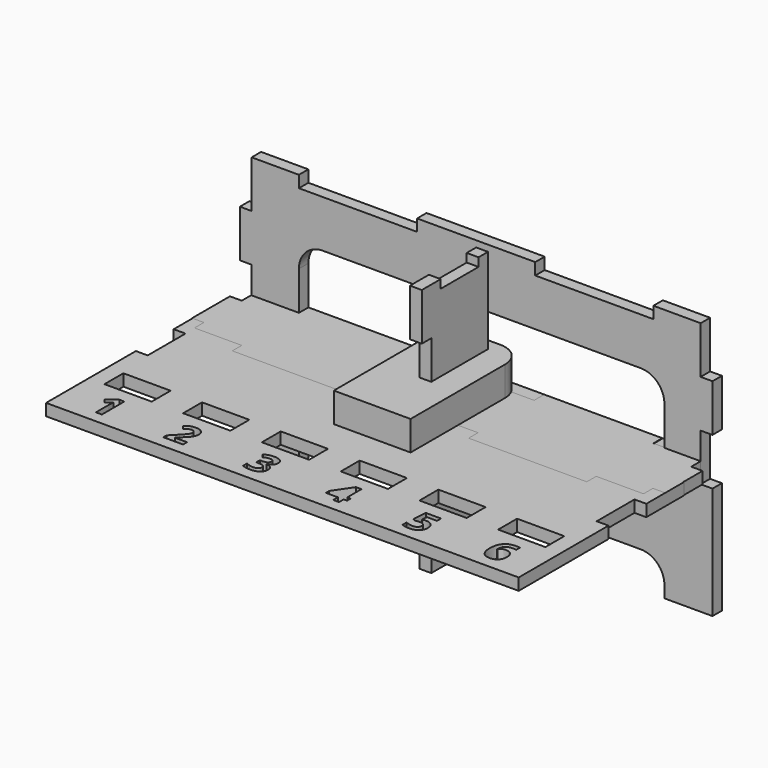
from build123d import *

# Parameters (mm, degrees)
F0_R     = 1.5875
F1_DEPTH = 44.45
F2_W     = 50.8
F2_H     = 25.4
F2_R     = 1.6129
F3_DEPTH = 12.7
F5_DEPTH = 12.7
F7_DEPTH = 12.7
F9_DEPTH = 12.7


with BuildPart() as f1:
    # F0 (on Top) → F1 (new body)
    with BuildSketch(Plane.XY):
        with BuildLine():
            Line((15.875, 0), (-15.875, 0))
            ThreePointArc((-15.875, 0), (-33.8355122421, -7.4394877579), (-41.275, -25.4))
            Line((-41.275, -25.4), (-41.275, -152.4))
            Line((-41.275, -152.4), (41.275, -152.4))
            Line((41.275, -152.4), (41.275, -25.4))
            ThreePointArc((41.275, -25.4), (33.8355122421, -7.4394877579), (15.875, 0))
        make_face()
        with Locations((0, -25.4)):
            Circle(F0_R, mode=Mode.SUBTRACT)
    extrude(amount=F1_DEPTH)


with BuildPart() as f3:
    # F2 (on Top) → F3 (new body)
    with BuildSketch(Plane.XY):
        Polygon((-190.5, 0), (-241.3, 0), (-241.3, -50.8), (-254, -50.8), (-254, -101.6), (-241.3, -101.6), (-241.3, -152.4), (-254, -152.4), (-254, -273.05), (254, -273.05), (254, -152.4), (241.3, -152.4), (241.3, -101.6), (254, -101.6), (254, -50.8), (241.3, -50.8), (241.3, 0), (190.5, 0), (190.5, -12.7), (63.5, -12.7), (63.5, 0), (-63.5, 0), (-63.5, -12.7), (-190.5, -12.7), align=None)
        with BuildLine():
            Line((-204.210046875, -230.12796875), (-204.210046875, -260.35))
            Line((-204.210046875, -260.35), (-210.599734375, -260.35))
            Line((-210.599734375, -260.35), (-210.599734375, -242.8610416667))
            Line((-210.599734375, -242.8610416667), (-210.5335885417, -239.9903125))
            Line((-210.5335885417, -239.9903125), (-210.4343697917, -236.8483854167))
            add(Edge.make_bspline(
                [(-210.4343697917, -236.8483854167), (-212.0218697917, -238.4358854167), (-212.643640625, -238.9319791667)],
                knots=[0, 0, 0, 1, 1, 1], degree=2))
            Line((-212.643640625, -238.9319791667), (-216.116296875, -241.7233333333))
            Line((-216.116296875, -241.7233333333), (-219.1986927083, -237.8802604167))
            Line((-219.1986927083, -237.8802604167), (-209.4620260417, -230.12796875))
            Line((-209.4620260417, -230.12796875), (-204.210046875, -230.12796875))
        make_face(mode=Mode.SUBTRACT)
        with BuildLine():
            Line((-116.9623697917, -254.97234375), (-116.9623697917, -260.35))
            Line((-116.9623697917, -260.35), (-138.0893489583, -260.35))
            Line((-138.0893489583, -260.35), (-138.0893489583, -255.905))
            Line((-138.0893489583, -255.905), (-130.502421875, -248.2386979167))
            add(Edge.make_bspline(
                [(-130.502421875, -248.2386979167), (-127.128984375, -244.7858854167), (-126.097109375, -243.453046875)],
                knots=[0, 0, 0, 1, 1, 1], degree=2))
            add(Edge.make_bspline(
                [(-126.097109375, -243.453046875), (-125.065234375, -242.1202083333), (-124.608828125, -240.9825)],
                knots=[0, 0, 0, 1, 1, 1], degree=2))
            add(Edge.make_bspline(
                [(-124.608828125, -240.9825), (-124.152421875, -239.8447916667), (-124.152421875, -238.6277083333)],
                knots=[0, 0, 0, 1, 1, 1], degree=2))
            add(Edge.make_bspline(
                [(-124.152421875, -238.6277083333), (-124.152421875, -236.8086979167), (-125.1578385417, -235.9190364583)],
                knots=[0, 0, 0, 1, 1, 1], degree=2))
            add(Edge.make_bspline(
                [(-125.1578385417, -235.9190364583), (-126.1632552083, -235.029375), (-127.8367447917, -235.029375)],
                knots=[0, 0, 0, 1, 1, 1], degree=2))
            add(Edge.make_bspline(
                [(-127.8367447917, -235.029375), (-129.589609375, -235.029375), (-131.2432552083, -235.8363541667)],
                knots=[0, 0, 0, 1, 1, 1], degree=2))
            add(Edge.make_bspline(
                [(-131.2432552083, -235.8363541667), (-132.8969010417, -236.6433333333), (-134.6960677083, -238.1316145833)],
                knots=[0, 0, 0, 1, 1, 1], degree=2))
            Line((-134.6960677083, -238.1316145833), (-138.1687239583, -234.01734375))
            add(Edge.make_bspline(
                [(-138.1687239583, -234.01734375), (-135.939609375, -232.11234375), (-134.471171875, -231.328515625)],
                knots=[0, 0, 0, 1, 1, 1], degree=2))
            add(Edge.make_bspline(
                [(-134.471171875, -231.328515625), (-133.002734375, -230.5446875), (-131.26640625, -230.1213541667)],
                knots=[0, 0, 0, 1, 1, 1], degree=2))
            add(Edge.make_bspline(
                [(-131.26640625, -230.1213541667), (-129.530078125, -229.6980208333), (-127.3803385417, -229.6980208333)],
                knots=[0, 0, 0, 1, 1, 1], degree=2))
            add(Edge.make_bspline(
                [(-127.3803385417, -229.6980208333), (-124.549296875, -229.6980208333), (-122.3797135417, -230.7298958333)],
                knots=[0, 0, 0, 1, 1, 1], degree=2))
            add(Edge.make_bspline(
                [(-122.3797135417, -230.7298958333), (-120.2101302083, -231.7617708333), (-119.0095833333, -233.6237760417)],
                knots=[0, 0, 0, 1, 1, 1], degree=2))
            add(Edge.make_bspline(
                [(-119.0095833333, -233.6237760417), (-117.8090364583, -235.48578125), (-117.8090364583, -237.8802604167)],
                knots=[0, 0, 0, 1, 1, 1], degree=2))
            add(Edge.make_bspline(
                [(-117.8090364583, -237.8802604167), (-117.8090364583, -239.97046875), (-118.5432552083, -241.7994010417)],
                knots=[0, 0, 0, 1, 1, 1], degree=2))
            add(Edge.make_bspline(
                [(-118.5432552083, -241.7994010417), (-119.2774739583, -243.6283333333), (-120.818671875, -245.5498697917)],
                knots=[0, 0, 0, 1, 1, 1], degree=2))
            add(Edge.make_bspline(
                [(-120.818671875, -245.5498697917), (-122.3598697917, -247.47140625), (-126.2426302083, -251.0300520833)],
                knots=[0, 0, 0, 1, 1, 1], degree=2))
            Line((-126.2426302083, -251.0300520833), (-130.1320052083, -254.6879166667))
            Line((-130.1320052083, -254.6879166667), (-130.1320052083, -254.97234375))
            Line((-130.1320052083, -254.97234375), (-116.9623697917, -254.97234375))
        make_face(mode=Mode.SUBTRACT)
        with BuildLine():
            add(Edge.make_bspline(
                [(-36.1308385417, -231.5997135417), (-33.4122447917, -233.50140625), (-33.4122447917, -236.8880729167)],
                knots=[0, 0, 0, 1, 1, 1], degree=2))
            add(Edge.make_bspline(
                [(-33.4122447917, -236.8880729167), (-33.4122447917, -239.7191145833), (-35.1287291667, -241.7034895833)],
                knots=[0, 0, 0, 1, 1, 1], degree=2))
            add(Edge.make_bspline(
                [(-35.1287291667, -241.7034895833), (-36.8452135417, -243.6878645833), (-39.947453125, -244.4353125)],
                knots=[0, 0, 0, 1, 1, 1], degree=2))
            Line((-39.947453125, -244.4353125), (-39.947453125, -244.554375))
            add(Edge.make_bspline(
                [(-39.947453125, -244.554375), (-36.2829739583, -245.01078125), (-34.4044322917, -246.7801822917)],
                knots=[0, 0, 0, 1, 1, 1], degree=2))
            add(Edge.make_bspline(
                [(-34.4044322917, -246.7801822917), (-32.525890625, -248.5495833333), (-32.525890625, -251.5459895833)],
                knots=[0, 0, 0, 1, 1, 1], degree=2))
            add(Edge.make_bspline(
                [(-32.525890625, -251.5459895833), (-32.525890625, -255.905), (-35.6876614583, -258.335859375)],
                knots=[0, 0, 0, 1, 1, 1], degree=2))
            add(Edge.make_bspline(
                [(-35.6876614583, -258.335859375), (-38.8494322917, -260.76671875), (-44.7165677083, -260.76671875)],
                knots=[0, 0, 0, 1, 1, 1], degree=2))
            add(Edge.make_bspline(
                [(-44.7165677083, -260.76671875), (-49.6378177083, -260.76671875), (-53.441203125, -259.1329166667)],
                knots=[0, 0, 0, 1, 1, 1], degree=2))
            Line((-53.441203125, -259.1329166667), (-53.441203125, -253.6957291667))
            add(Edge.make_bspline(
                [(-53.441203125, -253.6957291667), (-51.6883385417, -254.5820833333), (-49.5782864583, -255.141015625)],
                knots=[0, 0, 0, 1, 1, 1], degree=2))
            add(Edge.make_bspline(
                [(-49.5782864583, -255.141015625), (-47.468234375, -255.6999479167), (-45.404484375, -255.6999479167)],
                knots=[0, 0, 0, 1, 1, 1], degree=2))
            add(Edge.make_bspline(
                [(-45.404484375, -255.6999479167), (-42.2360989583, -255.6999479167), (-40.7279739583, -254.625078125)],
                knots=[0, 0, 0, 1, 1, 1], degree=2))
            add(Edge.make_bspline(
                [(-40.7279739583, -254.625078125), (-39.2198489583, -253.5502083333), (-39.2198489583, -251.1689583333)],
                knots=[0, 0, 0, 1, 1, 1], degree=2))
            add(Edge.make_bspline(
                [(-39.2198489583, -251.1689583333), (-39.2198489583, -249.0456770833), (-40.9561770833, -248.156015625)],
                knots=[0, 0, 0, 1, 1, 1], degree=2))
            add(Edge.make_bspline(
                [(-40.9561770833, -248.156015625), (-42.6925052083, -247.2663541667), (-46.495890625, -247.2663541667)],
                knots=[0, 0, 0, 1, 1, 1], degree=2))
            Line((-46.495890625, -247.2663541667), (-48.7911510417, -247.2663541667))
            Line((-48.7911510417, -247.2663541667), (-48.7911510417, -242.3649479167))
            Line((-48.7911510417, -242.3649479167), (-46.456203125, -242.3649479167))
            add(Edge.make_bspline(
                [(-46.456203125, -242.3649479167), (-42.943859375, -242.3649479167), (-41.3199791667, -241.4455208333)],
                knots=[0, 0, 0, 1, 1, 1], degree=2))
            add(Edge.make_bspline(
                [(-41.3199791667, -241.4455208333), (-39.6960989583, -240.52609375), (-39.6960989583, -238.2969791667)],
                knots=[0, 0, 0, 1, 1, 1], degree=2))
            add(Edge.make_bspline(
                [(-39.6960989583, -238.2969791667), (-39.6960989583, -234.8640104167), (-43.995578125, -234.8640104167)],
                knots=[0, 0, 0, 1, 1, 1], degree=2))
            add(Edge.make_bspline(
                [(-43.995578125, -234.8640104167), (-45.483859375, -234.8640104167), (-47.0250572917, -235.3601041667)],
                knots=[0, 0, 0, 1, 1, 1], degree=2))
            add(Edge.make_bspline(
                [(-47.0250572917, -235.3601041667), (-48.5662552083, -235.8561979167), (-50.444796875, -237.07328125)],
                knots=[0, 0, 0, 1, 1, 1], degree=2))
            Line((-50.444796875, -237.07328125), (-53.401515625, -232.6745833333))
            add(Edge.make_bspline(
                [(-53.401515625, -232.6745833333), (-49.2674010417, -229.6980208333), (-43.539171875, -229.6980208333)],
                knots=[0, 0, 0, 1, 1, 1], degree=2))
            add(Edge.make_bspline(
                [(-43.539171875, -229.6980208333), (-38.8494322917, -229.6980208333), (-36.1308385417, -231.5997135417)],
                knots=[0, 0, 0, 1, 1, 1], degree=2))
        make_face(mode=Mode.SUBTRACT)
        with Locations((-211.582, -203.2)):
            Rectangle(F2_W, F2_H, mode=Mode.SUBTRACT)
        with Locations((-127, -203.2)):
            Rectangle(F2_W, F2_H, mode=Mode.SUBTRACT)
        with Locations((-42.418, -203.2)):
            Rectangle(F2_W, F2_H, mode=Mode.SUBTRACT)
        Polygon((54.32028125, -249.1250520833), (54.32028125, -254.0859895833), (50.6822604167, -254.0859895833), (50.6822604167, -260.35), (44.43809375, -260.35), (44.43809375, -254.0859895833), (31.53965625, -254.0859895833), (31.53965625, -249.6409895833), (44.79528125, -230.12796875), (50.6822604167, -230.12796875), (50.6822604167, -249.1250520833), align=None, mode=Mode.SUBTRACT)
        with BuildLine():
            add(Edge.make_bspline(
                [(125.5904322917, -241.3330729167), (126.8538177083, -241.04203125), (128.712515625, -241.04203125)],
                knots=[0, 0, 0, 1, 1, 1], degree=2))
            add(Edge.make_bspline(
                [(128.712515625, -241.04203125), (133.0913697917, -241.04203125), (135.68759375, -243.50265625)],
                knots=[0, 0, 0, 1, 1, 1], degree=2))
            add(Edge.make_bspline(
                [(135.68759375, -243.50265625), (138.2838177083, -245.96328125), (138.2838177083, -250.2429166667)],
                knots=[0, 0, 0, 1, 1, 1], degree=2))
            add(Edge.make_bspline(
                [(138.2838177083, -250.2429166667), (138.2838177083, -255.3030729167), (135.161734375, -258.0348958333)],
                knots=[0, 0, 0, 1, 1, 1], degree=2))
            add(Edge.make_bspline(
                [(135.161734375, -258.0348958333), (132.0396510417, -260.76671875), (126.232046875, -260.76671875)],
                knots=[0, 0, 0, 1, 1, 1], degree=2))
            add(Edge.make_bspline(
                [(126.232046875, -260.76671875), (121.1851197917, -260.76671875), (118.0894947917, -259.1329166667)],
                knots=[0, 0, 0, 1, 1, 1], degree=2))
            Line((118.0894947917, -259.1329166667), (118.0894947917, -253.6097395833))
            add(Edge.make_bspline(
                [(118.0894947917, -253.6097395833), (119.7166822917, -254.47625), (121.8895729167, -255.0252604167)],
                knots=[0, 0, 0, 1, 1, 1], degree=2))
            add(Edge.make_bspline(
                [(121.8895729167, -255.0252604167), (124.0624635417, -255.5742708333), (126.0005364583, -255.5742708333)],
                knots=[0, 0, 0, 1, 1, 1], degree=2))
            add(Edge.make_bspline(
                [(126.0005364583, -255.5742708333), (131.8544427083, -255.5742708333), (131.8544427083, -250.7786979167)],
                knots=[0, 0, 0, 1, 1, 1], degree=2))
            add(Edge.make_bspline(
                [(131.8544427083, -250.7786979167), (131.8544427083, -246.2080208333), (125.795484375, -246.2080208333)],
                knots=[0, 0, 0, 1, 1, 1], degree=2))
            add(Edge.make_bspline(
                [(125.795484375, -246.2080208333), (124.704078125, -246.2080208333), (123.3811614583, -246.4263020833)],
                knots=[0, 0, 0, 1, 1, 1], degree=2))
            add(Edge.make_bspline(
                [(123.3811614583, -246.4263020833), (122.0582447917, -246.6445833333), (121.231421875, -246.8959375)],
                knots=[0, 0, 0, 1, 1, 1], degree=2))
            Line((121.231421875, -246.8959375), (118.6848072917, -245.52671875))
            Line((118.6848072917, -245.52671875), (119.822515625, -230.12796875))
            Line((119.822515625, -230.12796875), (136.213453125, -230.12796875))
            Line((136.213453125, -230.12796875), (136.213453125, -235.5453125))
            Line((136.213453125, -235.5453125), (125.4250677083, -235.5453125))
            Line((125.4250677083, -235.5453125), (124.8694427083, -241.47859375))
            Line((124.8694427083, -241.47859375), (125.5904322917, -241.3330729167))
        make_face(mode=Mode.SUBTRACT)
        with BuildLine():
            add(Edge.make_bspline(
                [(203.16428125, -254.6879166667), (201.8115989583, -251.7113541667), (201.8115989583, -247.51109375)],
                knots=[0, 0, 0, 1, 1, 1], degree=2))
            add(Edge.make_bspline(
                [(201.8115989583, -247.51109375), (201.8115989583, -238.54171875), (205.6050625, -234.1595572917)],
                knots=[0, 0, 0, 1, 1, 1], degree=2))
            add(Edge.make_bspline(
                [(205.6050625, -234.1595572917), (209.3985260417, -229.7773958333), (216.965609375, -229.7773958333)],
                knots=[0, 0, 0, 1, 1, 1], degree=2))
            add(Edge.make_bspline(
                [(216.965609375, -229.7773958333), (219.545296875, -229.7773958333), (221.013734375, -230.08828125)],
                knots=[0, 0, 0, 1, 1, 1], degree=2))
            Line((221.013734375, -230.08828125), (221.013734375, -235.1947395833))
            add(Edge.make_bspline(
                [(221.013734375, -235.1947395833), (219.1748802083, -234.7780208333), (217.3757135417, -234.7780208333)],
                knots=[0, 0, 0, 1, 1, 1], degree=2))
            add(Edge.make_bspline(
                [(217.3757135417, -234.7780208333), (214.088265625, -234.7780208333), (212.0112864583, -235.7702083333)],
                knots=[0, 0, 0, 1, 1, 1], degree=2))
            add(Edge.make_bspline(
                [(212.0112864583, -235.7702083333), (209.9343072917, -236.7623958333), (208.9024322917, -238.7070833333)],
                knots=[0, 0, 0, 1, 1, 1], degree=2))
            add(Edge.make_bspline(
                [(208.9024322917, -238.7070833333), (207.8705572917, -240.6517708333), (207.6853489583, -244.2236458333)],
                knots=[0, 0, 0, 1, 1, 1], degree=2))
            Line((207.6853489583, -244.2236458333), (207.9499322917, -244.2236458333))
            add(Edge.make_bspline(
                [(207.9499322917, -244.2236458333), (210.000453125, -240.7113020833), (214.504984375, -240.7113020833)],
                knots=[0, 0, 0, 1, 1, 1], degree=2))
            add(Edge.make_bspline(
                [(214.504984375, -240.7113020833), (218.553109375, -240.7113020833), (220.8483697917, -243.254609375)],
                knots=[0, 0, 0, 1, 1, 1], degree=2))
            add(Edge.make_bspline(
                [(220.8483697917, -243.254609375), (223.1436302083, -245.7979166667), (223.1436302083, -250.2826041667)],
                knots=[0, 0, 0, 1, 1, 1], degree=2))
            add(Edge.make_bspline(
                [(223.1436302083, -250.2826041667), (223.1436302083, -255.1178645833), (220.4151145833, -257.9422916667)],
                knots=[0, 0, 0, 1, 1, 1], degree=2))
            add(Edge.make_bspline(
                [(220.4151145833, -257.9422916667), (217.6865989583, -260.76671875), (212.8513385417, -260.76671875)],
                knots=[0, 0, 0, 1, 1, 1], degree=2))
            add(Edge.make_bspline(
                [(212.8513385417, -260.76671875), (209.504359375, -260.76671875), (207.0106614583, -259.2155989583)],
                knots=[0, 0, 0, 1, 1, 1], degree=2))
            add(Edge.make_bspline(
                [(207.0106614583, -259.2155989583), (204.5169635417, -257.6644791667), (203.16428125, -254.6879166667)],
                knots=[0, 0, 0, 1, 1, 1], degree=2))
        make_face(mode=Mode.SUBTRACT)
        with Locations((42.418, -203.2)):
            Rectangle(F2_W, F2_H, mode=Mode.SUBTRACT)
        with Locations((127, -203.2)):
            Rectangle(F2_W, F2_H, mode=Mode.SUBTRACT)
        with Locations((211.582, -203.2)):
            Rectangle(F2_W, F2_H, mode=Mode.SUBTRACT)
        with Locations((-211.582, -44.45)):
            Circle(F2_R, mode=Mode.SUBTRACT)
        with Locations((-127, -44.45)):
            Circle(F2_R, mode=Mode.SUBTRACT)
        with Locations((-42.418, -44.45)):
            Circle(F2_R, mode=Mode.SUBTRACT)
        with Locations((42.418, -44.45)):
            Circle(F2_R, mode=Mode.SUBTRACT)
        with Locations((127, -44.45)):
            Circle(F2_R, mode=Mode.SUBTRACT)
        with Locations((211.582, -44.45)):
            Circle(F2_R, mode=Mode.SUBTRACT)
    extrude(amount=F3_DEPTH)


with BuildPart() as f5:
    # F4 (on Front) → F5 (new body)
    with BuildSketch(Plane.XZ):
        with BuildLine():
            Line((-190.5, 143.3285714286), (-241.3, 143.3285714286))
            Line((-241.3, 143.3285714286), (-241.3, 92.5285714286))
            Line((-241.3, 92.5285714286), (-254, 92.5285714286))
            Line((-254, 92.5285714286), (-254, 41.7285714286))
            Line((-254, 41.7285714286), (-241.3, 41.7285714286))
            Line((-241.3, 41.7285714286), (-241.3, -9.0714285714))
            Line((-241.3, -9.0714285714), (-254, -9.0714285714))
            Line((-254, -9.0714285714), (-254, -129.7214285714))
            Line((-254, -129.7214285714), (-190.5, -129.7214285714))
            Line((-190.5, -129.7214285714), (-190.5, -117.0214285714))
            ThreePointArc((-190.5, -117.0214285714), (-183.0605122421, -99.0609163293), (-165.1, -91.6214285714))
            Line((-165.1, -91.6214285714), (176.9316384554, -91.6214285714))
            ThreePointArc((176.9316384554, -91.6214285714), (194.8921506975, -99.0609163293), (202.3316384554, -117.0214285714))
            Line((202.3316384554, -117.0214285714), (202.3316384554, -129.7214285714))
            Line((202.3316384554, -129.7214285714), (254, -129.7214285714))
            Line((254, -129.7214285714), (254, -9.0714285714))
            Line((254, -9.0714285714), (241.3, -9.0714285714))
            Line((241.3, -9.0714285714), (241.3, 41.7285714286))
            Line((241.3, 41.7285714286), (254, 41.7285714286))
            Line((254, 41.7285714286), (254, 92.5285714286))
            Line((254, 92.5285714286), (241.3, 92.5285714286))
            Line((241.3, 92.5285714286), (241.3, 143.3285714286))
            Line((241.3, 143.3285714286), (190.5, 143.3285714286))
            Line((190.5, 143.3285714286), (190.5, 130.6285714286))
            Line((190.5, 130.6285714286), (63.5, 130.6285714286))
            Line((63.5, 130.6285714286), (63.5, 143.3285714286))
            Line((63.5, 143.3285714286), (-63.5, 143.3285714286))
            Line((-63.5, 143.3285714286), (-63.5, 130.6285714286))
            Line((-63.5, 130.6285714286), (-190.5, 130.6285714286))
            Line((-190.5, 130.6285714286), (-190.5, 143.3285714286))
        make_face()
        with BuildLine():
            ThreePointArc((-190.5, 54.4285714286), (-183.0605122421, 72.3890836707), (-165.1, 79.8285714286))
            Line((-165.1, 79.8285714286), (176.9316384554, 79.8285714286))
            ThreePointArc((176.9316384554, 79.8285714286), (194.8921506975, 72.3890836707), (202.3316384554, 54.4285714286))
            Line((202.3316384554, 54.4285714286), (202.3316384554, 3.6285714286))
            ThreePointArc((202.3316384554, 3.6285714286), (194.8921506975, -14.3319408136), (176.9316384554, -21.7714285714))
            Line((176.9316384554, -21.7714285714), (-165.1, -21.7714285714))
            ThreePointArc((-165.1, -21.7714285714), (-183.0605122421, -14.3319408136), (-190.5, 3.6285714286))
            Line((-190.5, 3.6285714286), (-190.5, 54.4285714286))
        make_face(mode=Mode.SUBTRACT)
    extrude(amount=F5_DEPTH)


with BuildPart() as f7:
    # F6 (on Right) → F7 (new body)
    with BuildSketch(Plane.YZ):
        Polygon((0, 85.725), (0, 136.525), (-25.4, 136.525), (-25.4, 127.3887455463), (-76.2, 127.3887455463), (-76.2, 136.525), (-101.6, 136.525), (-101.6, 85.725), (-88.9, 85.725), (-88.9, 34.925), (-101.6, 34.925), (-101.6, -15.875), (-88.9, -15.875), (-88.9, -136.525), (-12.7, -136.525), (-12.7, -15.875), (0, -15.875), (0, 34.925), (-12.7, 34.925), (-12.7, 85.725), align=None)
    extrude(amount=F7_DEPTH)


with BuildPart() as f9:
    # F8 (on Top) → F9 (new body)
    with BuildSketch(Plane.XY):
        Polygon((-241.8087220975, -25.4), (-254.5087220975, -25.4), (-254.5087220975, -76.2), (-241.8087220975, -76.2), (-241.8087220975, -88.9), (-191.0087220975, -88.9), (-191.0087220975, -101.6), (-64.0087220975, -101.6), (-64.0087220975, -88.9), (62.9912779025, -88.9), (62.9912779025, -101.6), (189.9912779025, -101.6), (189.9912779025, -88.9), (240.7912779025, -88.9), (240.7912779025, -76.2), (253.4912779025, -76.2), (253.4912779025, -25.4), (240.7912779025, -25.4), (240.7912779025, -11.9896531105), (189.9912779025, -11.9896531105), (189.9912779025, 0), (62.9912779025, 0), (62.9912779025, -13.565948233), (-64.0087220975, -13.565948233), (-64.0087220975, 0), (-191.0087220975, 0), (-191.0087220975, -12.7), (-241.8087220975, -12.7), align=None)
    extrude(amount=F9_DEPTH)


solid = Compound([f1.part, f3.part, f5.part, f7.part, f9.part])
